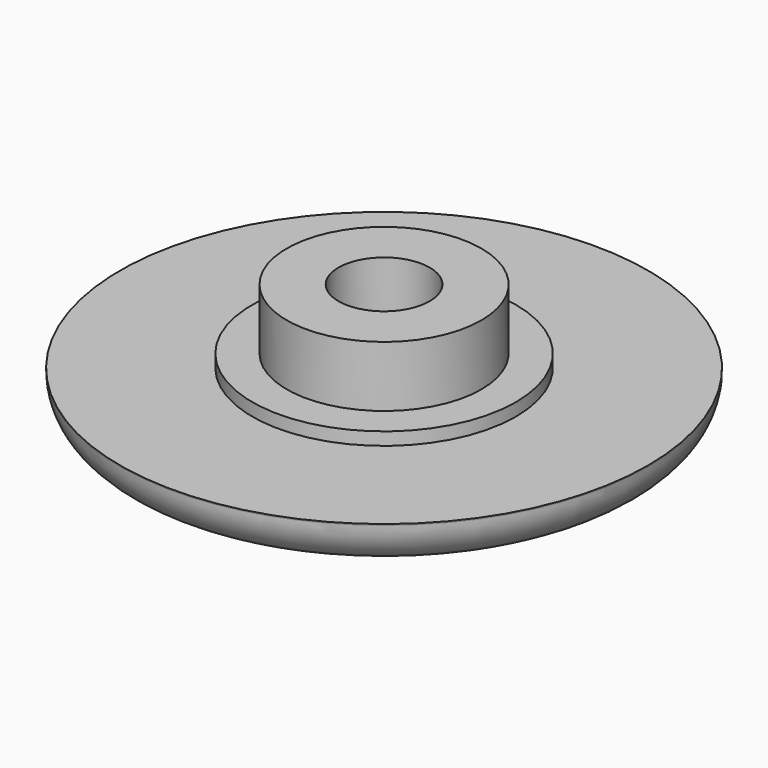
from build123d import *

# Parameters (mm, degrees)
F0_R     = 11.0236
F1_DEPTH = 1.905
F2_R     = 5.50545
F3_DEPTH = 0.5334
F4_R     = 4.064
F5_DEPTH = 2.54
F6_R     = 1.905
F7_DEPTH = 3.0734
F8_R     = 1.8542


with BuildPart() as f1:
    # F0 (on Top) → F1 (new body)
    with BuildSketch(Plane.XY):
        Circle(F0_R)
    extrude(amount=F1_DEPTH)

    # F2 (on face) → F3 (join)
    with BuildSketch(Plane.XY.offset(1.905)):
        Circle(F2_R)
    extrude(amount=F3_DEPTH)

    # F4 (on face) → F5 (join)
    with BuildSketch(Plane.XY.offset(2.4384)):
        Circle(F4_R)
    extrude(amount=F5_DEPTH)

    # F6 (on face) → F7 (cut, through all)
    with BuildSketch(Plane.XY.offset(4.9784)):
        Circle(F6_R)
    extrude(amount=-F7_DEPTH, mode=Mode.SUBTRACT)

    # F8
    f8_edges = [f1.edges().sort_by_distance(p)[0] for p in [
        (-11.0236, 0, 0),
    ]]
    fillet(f8_edges, radius=F8_R)


solid = f1.part
